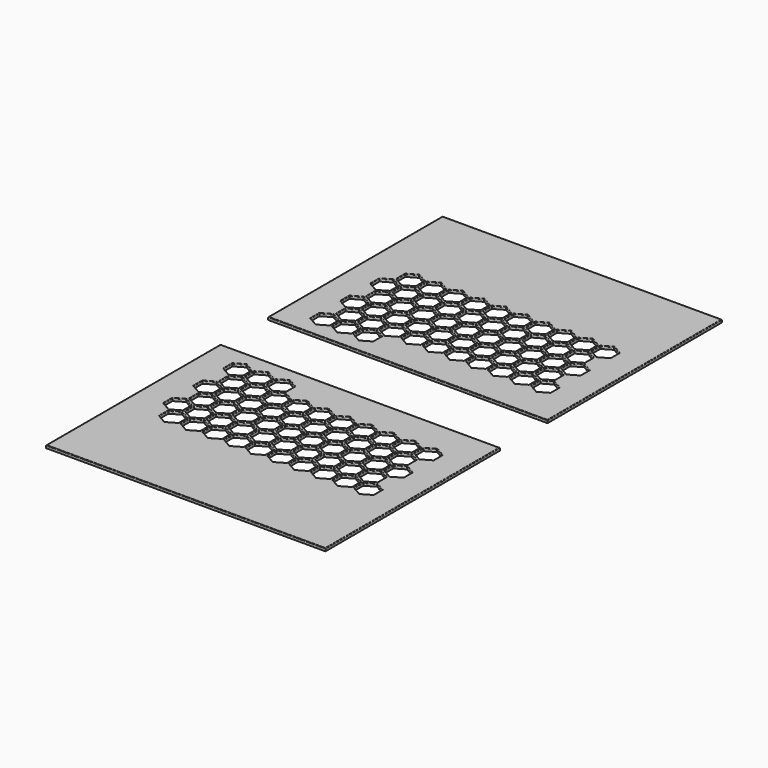
from build123d import *

# Parameters (mm, degrees)
F0_W     = 129.8525900757
F0_H     = 101.3386703653
F1_DEPTH = 1.27
F2_R     = 0.3048


with BuildPart() as f1:
    # F0 (on Top) → F1 (new body)
    with BuildSketch(Plane.XY):
        with Locations((43.5611707774, 64.508975306)):
            Rectangle(F0_W, F0_H)
        Polygon((0.133693842, 22.7296401233), (-4.2657152092, 20.1896401233), (-8.6651242604, 22.7296401233), (-8.6651242604, 27.8096401233), (-4.2657152092, 30.3496401233), (0.133693842, 27.8096401233), align=None, mode=Mode.SUBTRACT)
        Polygon((10.2025119445, 22.7296401233), (5.8031028932, 20.1896401233), (1.403693842, 22.7296401233), (1.403693842, 27.8096401233), (5.8031028932, 30.3496401233), (10.2025119445, 27.8096401233), align=None, mode=Mode.SUBTRACT)
        Polygon((0.768693842, 39.0694923861), (5.1681028932, 36.5294923861), (5.1681028932, 31.4494923861), (0.768693842, 28.9094923861), (-3.6307152092, 31.4494923861), (-3.6307152092, 36.5294923861), align=None, mode=Mode.SUBTRACT)
        Polygon((6.4381028932, 31.4494923861), (6.4381028932, 36.5294923861), (10.8375119445, 39.0694923861), (15.2369209957, 36.5294923861), (15.2369209957, 31.4494923861), (10.8375119445, 28.9094923861), align=None, mode=Mode.SUBTRACT)
        Polygon((20.2713300469, 22.7296401233), (15.8719209957, 20.1896401233), (11.4725119445, 22.7296401233), (11.4725119445, 27.8096401233), (15.8719209957, 30.3496401233), (20.2713300469, 27.8096401233), align=None, mode=Mode.SUBTRACT)
        Polygon((25.3057390981, 36.5294923861), (25.3057390981, 31.4494923861), (20.9063300469, 28.9094923861), (16.5069209957, 31.4494923861), (16.5069209957, 36.5294923861), (20.9063300469, 39.0694923861), align=None, mode=Mode.SUBTRACT)
        Polygon((26.5757390981, 31.4494923861), (26.5757390981, 36.5294923861), (30.9751481494, 39.0694923861), (35.3745572006, 36.5294923861), (35.3745572006, 31.4494923861), (30.9751481494, 28.9094923861), align=None, mode=Mode.SUBTRACT)
        Polygon((45.443375303, 36.5294923861), (45.443375303, 31.4494923861), (41.0439662518, 28.9094923861), (36.6445572006, 31.4494923861), (36.6445572006, 36.5294923861), (41.0439662518, 39.0694923861), align=None, mode=Mode.SUBTRACT)
        Polygon((0.133693842, 45.2493446489), (0.133693842, 40.1693446489), (-4.2657152092, 37.6293446489), (-8.6651242604, 40.1693446489), (-8.6651242604, 45.2493446489), (-4.2657152092, 47.7893446489), align=None, mode=Mode.SUBTRACT)
        Polygon((10.2025119445, 45.2493446489), (10.2025119445, 40.1693446489), (5.8031028932, 37.6293446489), (1.403693842, 40.1693446489), (1.403693842, 45.2493446489), (5.8031028932, 47.7893446489), align=None, mode=Mode.SUBTRACT)
        Polygon((0.768693842, 46.3491969117), (-3.6307152092, 48.8891969117), (-3.6307152092, 53.9691969117), (0.768693842, 56.5091969117), (5.1681028932, 53.9691969117), (5.1681028932, 48.8891969117), align=None, mode=Mode.SUBTRACT)
        Polygon((6.4381028932, 53.9691969117), (10.8375119445, 56.5091969117), (15.2369209957, 53.9691969117), (15.2369209957, 48.8891969117), (10.8375119445, 46.3491969117), (6.4381028932, 48.8891969117), align=None, mode=Mode.SUBTRACT)
        Polygon((0.133693842, 62.6890491746), (0.133693842, 57.6090491746), (-4.2657152092, 55.0690491746), (-8.6651242604, 57.6090491746), (-8.6651242604, 62.6890491746), (-4.2657152092, 65.2290491746), align=None, mode=Mode.SUBTRACT)
        Polygon((10.2025119445, 62.6890491746), (10.2025119445, 57.6090491746), (5.8031028932, 55.0690491746), (1.403693842, 57.6090491746), (1.403693842, 62.6890491746), (5.8031028932, 65.2290491746), align=None, mode=Mode.SUBTRACT)
        Polygon((20.2713300469, 40.1693446489), (15.8719209957, 37.6293446489), (11.4725119445, 40.1693446489), (11.4725119445, 45.2493446489), (15.8719209957, 47.7893446489), (20.2713300469, 45.2493446489), align=None, mode=Mode.SUBTRACT)
        Polygon((30.3401481494, 45.2493446489), (30.3401481494, 40.1693446489), (25.9407390981, 37.6293446489), (21.5413300469, 40.1693446489), (21.5413300469, 45.2493446489), (25.9407390981, 47.7893446489), align=None, mode=Mode.SUBTRACT)
        Polygon((16.5069209957, 53.9691969117), (20.9063300469, 56.5091969117), (25.3057390981, 53.9691969117), (25.3057390981, 48.8891969117), (20.9063300469, 46.3491969117), (16.5069209957, 48.8891969117), align=None, mode=Mode.SUBTRACT)
        Polygon((40.4089662518, 40.1693446489), (36.0095572006, 37.6293446489), (31.6101481494, 40.1693446489), (31.6101481494, 45.2493446489), (36.0095572006, 47.7893446489), (40.4089662518, 45.2493446489), align=None, mode=Mode.SUBTRACT)
        Polygon((26.5757390981, 53.9691969117), (30.9751481494, 56.5091969117), (35.3745572006, 53.9691969117), (35.3745572006, 48.8891969117), (30.9751481494, 46.3491969117), (26.5757390981, 48.8891969117), align=None, mode=Mode.SUBTRACT)
        Polygon((36.6445572006, 53.9691969117), (41.0439662518, 56.5091969117), (45.443375303, 53.9691969117), (45.443375303, 48.8891969117), (41.0439662518, 46.3491969117), (36.6445572006, 48.8891969117), align=None, mode=Mode.SUBTRACT)
        Polygon((20.2713300469, 57.6090491746), (15.8719209957, 55.0690491746), (11.4725119445, 57.6090491746), (11.4725119445, 62.6890491746), (15.8719209957, 65.2290491746), (20.2713300469, 62.6890491746), align=None, mode=Mode.SUBTRACT)
        Polygon((30.3401481494, 62.6890491746), (30.3401481494, 57.6090491746), (25.9407390981, 55.0690491746), (21.5413300469, 57.6090491746), (21.5413300469, 62.6890491746), (25.9407390981, 65.2290491746), align=None, mode=Mode.SUBTRACT)
        Polygon((40.4089662518, 57.6090491746), (36.0095572006, 55.0690491746), (31.6101481494, 57.6090491746), (31.6101481494, 62.6890491746), (36.0095572006, 65.2290491746), (40.4089662518, 62.6890491746), align=None, mode=Mode.SUBTRACT)
        Polygon((46.713375303, 31.4494923861), (46.713375303, 36.5294923861), (51.1127843543, 39.0694923861), (55.5121934055, 36.5294923861), (55.5121934055, 31.4494923861), (51.1127843543, 28.9094923861), align=None, mode=Mode.SUBTRACT)
        Polygon((65.5810115079, 31.4494923861), (61.1816024567, 28.9094923861), (56.7821934055, 31.4494923861), (56.7821934055, 36.5294923861), (61.1816024567, 39.0694923861), (65.5810115079, 36.5294923861), align=None, mode=Mode.SUBTRACT)
        Polygon((71.2504205592, 39.0694923861), (75.6498296104, 36.5294923861), (75.6498296104, 31.4494923861), (71.2504205592, 28.9094923861), (66.8510115079, 31.4494923861), (66.8510115079, 36.5294923861), align=None, mode=Mode.SUBTRACT)
        Polygon((85.7186477128, 31.4494923861), (81.3192386616, 28.9094923861), (76.9198296104, 31.4494923861), (76.9198296104, 36.5294923861), (81.3192386616, 39.0694923861), (85.7186477128, 36.5294923861), align=None, mode=Mode.SUBTRACT)
        Polygon((91.3880567641, 28.9094923861), (86.9886477128, 31.4494923861), (86.9886477128, 36.5294923861), (91.3880567641, 39.0694923861), (95.7874658153, 36.5294923861), (95.7874658153, 31.4494923861), align=None, mode=Mode.SUBTRACT)
        Polygon((50.4777843543, 40.1693446489), (46.078375303, 37.6293446489), (41.6789662518, 40.1693446489), (41.6789662518, 45.2493446489), (46.078375303, 47.7893446489), (50.4777843543, 45.2493446489), align=None, mode=Mode.SUBTRACT)
        Polygon((60.5466024567, 40.1693446489), (56.1471934055, 37.6293446489), (51.7477843543, 40.1693446489), (51.7477843543, 45.2493446489), (56.1471934055, 47.7893446489), (60.5466024567, 45.2493446489), align=None, mode=Mode.SUBTRACT)
        Polygon((51.1127843543, 56.5091969117), (55.5121934055, 53.9691969117), (55.5121934055, 48.8891969117), (51.1127843543, 46.3491969117), (46.713375303, 48.8891969117), (46.713375303, 53.9691969117), align=None, mode=Mode.SUBTRACT)
        Polygon((66.2160115079, 37.6293446489), (61.8166024567, 40.1693446489), (61.8166024567, 45.2493446489), (66.2160115079, 47.7893446489), (70.6154205592, 45.2493446489), (70.6154205592, 40.1693446489), align=None, mode=Mode.SUBTRACT)
        Polygon((56.7821934055, 48.8891969117), (56.7821934055, 53.9691969117), (61.1816024567, 56.5091969117), (65.5810115079, 53.9691969117), (65.5810115079, 48.8891969117), (61.1816024567, 46.3491969117), align=None, mode=Mode.SUBTRACT)
        Polygon((66.8510115079, 53.9691969117), (71.2504205592, 56.5091969117), (75.6498296104, 53.9691969117), (75.6498296104, 48.8891969117), (71.2504205592, 46.3491969117), (66.8510115079, 48.8891969117), align=None, mode=Mode.SUBTRACT)
        Polygon((50.4777843543, 57.6090491746), (46.078375303, 55.0690491746), (41.6789662518, 57.6090491746), (41.6789662518, 62.6890491746), (46.078375303, 65.2290491746), (50.4777843543, 62.6890491746), align=None, mode=Mode.SUBTRACT)
        Polygon((60.5466024567, 57.6090491746), (56.1471934055, 55.0690491746), (51.7477843543, 57.6090491746), (51.7477843543, 62.6890491746), (56.1471934055, 65.2290491746), (60.5466024567, 62.6890491746), align=None, mode=Mode.SUBTRACT)
        Polygon((66.2160115079, 55.0690491746), (61.8166024567, 57.6090491746), (61.8166024567, 62.6890491746), (66.2160115079, 65.2290491746), (70.6154205592, 62.6890491746), (70.6154205592, 57.6090491746), align=None, mode=Mode.SUBTRACT)
        Polygon((76.2848296104, 47.7893446489), (80.6842386616, 45.2493446489), (80.6842386616, 40.1693446489), (76.2848296104, 37.6293446489), (71.8854205592, 40.1693446489), (71.8854205592, 45.2493446489), align=None, mode=Mode.SUBTRACT)
        Polygon((86.3536477128, 47.7893446489), (90.7530567641, 45.2493446489), (90.7530567641, 40.1693446489), (86.3536477128, 37.6293446489), (81.9542386616, 40.1693446489), (81.9542386616, 45.2493446489), align=None, mode=Mode.SUBTRACT)
        Polygon((76.9198296104, 48.8891969117), (76.9198296104, 53.9691969117), (81.3192386616, 56.5091969117), (85.7186477128, 53.9691969117), (85.7186477128, 48.8891969117), (81.3192386616, 46.3491969117), align=None, mode=Mode.SUBTRACT)
        Polygon((95.7874658153, 53.9691969117), (95.7874658153, 48.8891969117), (91.3880567641, 46.3491969117), (86.9886477128, 48.8891969117), (86.9886477128, 53.9691969117), (91.3880567641, 56.5091969117), align=None, mode=Mode.SUBTRACT)
        Polygon((76.2848296104, 65.2290491746), (80.6842386616, 62.6890491746), (80.6842386616, 57.6090491746), (76.2848296104, 55.0690491746), (71.8854205592, 57.6090491746), (71.8854205592, 62.6890491746), align=None, mode=Mode.SUBTRACT)
        Polygon((86.3536477128, 65.2290491746), (90.7530567641, 62.6890491746), (90.7530567641, 57.6090491746), (86.3536477128, 55.0690491746), (81.9542386616, 57.6090491746), (81.9542386616, 62.6890491746), align=None, mode=Mode.SUBTRACT)
        Polygon((0.768693842, 63.7889014374), (-3.6307152092, 66.3289014374), (-3.6307152092, 71.4089014374), (0.768693842, 73.9489014374), (5.1681028932, 71.4089014374), (5.1681028932, 66.3289014374), align=None, mode=Mode.SUBTRACT)
        Polygon((6.4381028932, 71.4089014374), (10.8375119445, 73.9489014374), (15.2369209957, 71.4089014374), (15.2369209957, 66.3289014374), (10.8375119445, 63.7889014374), (6.4381028932, 66.3289014374), align=None, mode=Mode.SUBTRACT)
        Polygon((16.5069209957, 71.4089014374), (20.9063300469, 73.9489014374), (25.3057390981, 71.4089014374), (25.3057390981, 66.3289014374), (20.9063300469, 63.7889014374), (16.5069209957, 66.3289014374), align=None, mode=Mode.SUBTRACT)
        Polygon((26.5757390981, 71.4089014374), (30.9751481494, 73.9489014374), (35.3745572006, 71.4089014374), (35.3745572006, 66.3289014374), (30.9751481494, 63.7889014374), (26.5757390981, 66.3289014374), align=None, mode=Mode.SUBTRACT)
        Polygon((36.6445572006, 71.4089014374), (41.0439662518, 73.9489014374), (45.443375303, 71.4089014374), (45.443375303, 66.3289014374), (41.0439662518, 63.7889014374), (36.6445572006, 66.3289014374), align=None, mode=Mode.SUBTRACT)
        Polygon((51.1127843543, 73.9489014374), (55.5121934055, 71.4089014374), (55.5121934055, 66.3289014374), (51.1127843543, 63.7889014374), (46.713375303, 66.3289014374), (46.713375303, 71.4089014374), align=None, mode=Mode.SUBTRACT)
        Polygon((56.7821934055, 66.3289014374), (56.7821934055, 71.4089014374), (61.1816024567, 73.9489014374), (65.5810115079, 71.4089014374), (65.5810115079, 66.3289014374), (61.1816024567, 63.7889014374), align=None, mode=Mode.SUBTRACT)
        Polygon((66.8510115079, 71.4089014374), (71.2504205592, 73.9489014374), (75.6498296104, 71.4089014374), (75.6498296104, 66.3289014374), (71.2504205592, 63.7889014374), (66.8510115079, 66.3289014374), align=None, mode=Mode.SUBTRACT)
        Polygon((76.9198296104, 66.3289014374), (76.9198296104, 71.4089014374), (81.3192386616, 73.9489014374), (85.7186477128, 71.4089014374), (85.7186477128, 66.3289014374), (81.3192386616, 63.7889014374), align=None, mode=Mode.SUBTRACT)
        Polygon((95.7874658153, 71.4089014374), (95.7874658153, 66.3289014374), (91.3880567641, 63.7889014374), (86.9886477128, 66.3289014374), (86.9886477128, 71.4089014374), (91.3880567641, 73.9489014374), align=None, mode=Mode.SUBTRACT)
    extrude(amount=F1_DEPTH)

    # F2
    f2_edges = [f1.edges().sort_by_distance(p)[0] for p in [
        (43.561171, 115.17831, 1.27),
        (-21.365124, 64.508975, 1.27),
        (43.561171, 13.83964, 1.27),
        (108.487466, 64.508975, 1.27),
        (-2.066011, 29.07964, 1.27),
        (0.133694, 25.26964, 1.27),
        (-2.066011, 21.45964, 1.27),
        (-6.46542, 21.45964, 1.27),
        (-8.665124, 25.26964, 1.27),
        (-6.46542, 29.07964, 1.27),
        (8.002807, 21.45964, 1.27),
        (3.603398, 21.45964, 1.27),
        (1.403694, 25.26964, 1.27),
        (3.603398, 29.07964, 1.27),
        (8.002807, 29.07964, 1.27),
        (10.202512, 25.26964, 1.27),
        (-1.431011, 37.799492, 1.27),
        (2.968398, 37.799492, 1.27),
        (5.168103, 33.989492, 1.27),
        (2.968398, 30.179492, 1.27),
        (-1.431011, 30.179492, 1.27),
        (-3.630715, 33.989492, 1.27),
        (8.637807, 30.179492, 1.27),
        (6.438103, 33.989492, 1.27),
        (8.637807, 37.799492, 1.27),
        (13.037216, 37.799492, 1.27),
        (15.236921, 33.989492, 1.27),
        (13.037216, 30.179492, 1.27),
        (18.071626, 21.45964, 1.27),
        (13.672216, 21.45964, 1.27),
        (11.472512, 25.26964, 1.27),
        (13.672216, 29.07964, 1.27),
        (18.071626, 29.07964, 1.27),
        (20.27133, 25.26964, 1.27),
        (23.106035, 37.799492, 1.27),
        (25.305739, 33.989492, 1.27),
        (23.106035, 30.179492, 1.27),
        (18.706626, 30.179492, 1.27),
        (16.506921, 33.989492, 1.27),
        (18.706626, 37.799492, 1.27),
        (28.775444, 30.179492, 1.27),
        (26.575739, 33.989492, 1.27),
        (28.775444, 37.799492, 1.27),
        (33.174853, 37.799492, 1.27),
        (35.374557, 33.989492, 1.27),
        (33.174853, 30.179492, 1.27),
        (45.443375, 33.989492, 1.27),
        (43.243671, 30.179492, 1.27),
        (38.844262, 30.179492, 1.27),
        (36.644557, 33.989492, 1.27),
        (38.844262, 37.799492, 1.27),
        (43.243671, 37.799492, 1.27),
        (-2.066011, 46.519345, 1.27),
        (0.133694, 42.709345, 1.27),
        (-2.066011, 38.899345, 1.27),
        (-6.46542, 38.899345, 1.27),
        (-8.665124, 42.709345, 1.27),
        (-6.46542, 46.519345, 1.27),
        (8.002807, 46.519345, 1.27),
        (10.202512, 42.709345, 1.27),
        (8.002807, 38.899345, 1.27),
        (3.603398, 38.899345, 1.27),
        (1.403694, 42.709345, 1.27),
        (3.603398, 46.519345, 1.27),
        (2.968398, 47.619197, 1.27),
        (-1.431011, 47.619197, 1.27),
        (-3.630715, 51.429197, 1.27),
        (-1.431011, 55.239197, 1.27),
        (2.968398, 55.239197, 1.27),
        (5.168103, 51.429197, 1.27),
        (8.637807, 47.619197, 1.27),
        (6.438103, 51.429197, 1.27),
        (8.637807, 55.239197, 1.27),
        (13.037216, 55.239197, 1.27),
        (15.236921, 51.429197, 1.27),
        (13.037216, 47.619197, 1.27),
        (-2.066011, 63.959049, 1.27),
        (0.133694, 60.149049, 1.27),
        (-2.066011, 56.339049, 1.27),
        (-6.46542, 56.339049, 1.27),
        (-8.665124, 60.149049, 1.27),
        (-6.46542, 63.959049, 1.27),
        (8.002807, 63.959049, 1.27),
        (10.202512, 60.149049, 1.27),
        (8.002807, 56.339049, 1.27),
        (3.603398, 56.339049, 1.27),
        (1.403694, 60.149049, 1.27),
        (3.603398, 63.959049, 1.27),
        (18.071626, 46.519345, 1.27),
        (20.27133, 42.709345, 1.27),
        (18.071626, 38.899345, 1.27),
        (13.672216, 38.899345, 1.27),
        (11.472512, 42.709345, 1.27),
        (13.672216, 46.519345, 1.27),
        (28.140444, 46.519345, 1.27),
        (30.340148, 42.709345, 1.27),
        (28.140444, 38.899345, 1.27),
        (23.741035, 38.899345, 1.27),
        (21.54133, 42.709345, 1.27),
        (23.741035, 46.519345, 1.27),
        (18.706626, 47.619197, 1.27),
        (16.506921, 51.429197, 1.27),
        (18.706626, 55.239197, 1.27),
        (23.106035, 55.239197, 1.27),
        (25.305739, 51.429197, 1.27),
        (23.106035, 47.619197, 1.27),
        (38.209262, 38.899345, 1.27),
        (33.809853, 38.899345, 1.27),
        (31.610148, 42.709345, 1.27),
        (33.809853, 46.519345, 1.27),
        (38.209262, 46.519345, 1.27),
        (40.408966, 42.709345, 1.27),
        (28.775444, 47.619197, 1.27),
        (26.575739, 51.429197, 1.27),
        (28.775444, 55.239197, 1.27),
        (33.174853, 55.239197, 1.27),
        (35.374557, 51.429197, 1.27),
        (33.174853, 47.619197, 1.27),
        (38.844262, 55.239197, 1.27),
        (43.243671, 55.239197, 1.27),
        (45.443375, 51.429197, 1.27),
        (43.243671, 47.619197, 1.27),
        (38.844262, 47.619197, 1.27),
        (36.644557, 51.429197, 1.27),
        (18.071626, 56.339049, 1.27),
        (13.672216, 56.339049, 1.27),
        (11.472512, 60.149049, 1.27),
        (13.672216, 63.959049, 1.27),
        (18.071626, 63.959049, 1.27),
        (20.27133, 60.149049, 1.27),
        (28.140444, 63.959049, 1.27),
        (30.340148, 60.149049, 1.27),
        (28.140444, 56.339049, 1.27),
        (23.741035, 56.339049, 1.27),
        (21.54133, 60.149049, 1.27),
        (23.741035, 63.959049, 1.27),
        (38.209262, 56.339049, 1.27),
        (33.809853, 56.339049, 1.27),
        (31.610148, 60.149049, 1.27),
        (33.809853, 63.959049, 1.27),
        (38.209262, 63.959049, 1.27),
        (40.408966, 60.149049, 1.27),
        (48.91308, 30.179492, 1.27),
        (46.713375, 33.989492, 1.27),
        (48.91308, 37.799492, 1.27),
        (53.312489, 37.799492, 1.27),
        (55.512193, 33.989492, 1.27),
        (53.312489, 30.179492, 1.27),
        (63.381307, 30.179492, 1.27),
        (58.981898, 30.179492, 1.27),
        (56.782193, 33.989492, 1.27),
        (58.981898, 37.799492, 1.27),
        (63.381307, 37.799492, 1.27),
        (65.581012, 33.989492, 1.27),
        (73.450125, 37.799492, 1.27),
        (75.64983, 33.989492, 1.27),
        (73.450125, 30.179492, 1.27),
        (69.050716, 30.179492, 1.27),
        (66.851012, 33.989492, 1.27),
        (69.050716, 37.799492, 1.27),
        (83.518943, 30.179492, 1.27),
        (79.119534, 30.179492, 1.27),
        (76.91983, 33.989492, 1.27),
        (79.119534, 37.799492, 1.27),
        (83.518943, 37.799492, 1.27),
        (85.718648, 33.989492, 1.27),
        (95.787466, 33.989492, 1.27),
        (93.587761, 30.179492, 1.27),
        (89.188352, 30.179492, 1.27),
        (86.988648, 33.989492, 1.27),
        (89.188352, 37.799492, 1.27),
        (93.587761, 37.799492, 1.27),
        (48.27808, 38.899345, 1.27),
        (43.878671, 38.899345, 1.27),
        (41.678966, 42.709345, 1.27),
        (43.878671, 46.519345, 1.27),
        (48.27808, 46.519345, 1.27),
        (50.477784, 42.709345, 1.27),
        (58.346898, 38.899345, 1.27),
        (53.947489, 38.899345, 1.27),
        (51.747784, 42.709345, 1.27),
        (53.947489, 46.519345, 1.27),
        (58.346898, 46.519345, 1.27),
        (60.546602, 42.709345, 1.27),
        (48.91308, 55.239197, 1.27),
        (53.312489, 55.239197, 1.27),
        (55.512193, 51.429197, 1.27),
        (53.312489, 47.619197, 1.27),
        (48.91308, 47.619197, 1.27),
        (46.713375, 51.429197, 1.27),
        (64.016307, 38.899345, 1.27),
        (61.816602, 42.709345, 1.27),
        (64.016307, 46.519345, 1.27),
        (68.415716, 46.519345, 1.27),
        (70.615421, 42.709345, 1.27),
        (68.415716, 38.899345, 1.27),
        (58.981898, 47.619197, 1.27),
        (56.782193, 51.429197, 1.27),
        (58.981898, 55.239197, 1.27),
        (63.381307, 55.239197, 1.27),
        (65.581012, 51.429197, 1.27),
        (63.381307, 47.619197, 1.27),
        (69.050716, 47.619197, 1.27),
        (66.851012, 51.429197, 1.27),
        (69.050716, 55.239197, 1.27),
        (73.450125, 55.239197, 1.27),
        (75.64983, 51.429197, 1.27),
        (73.450125, 47.619197, 1.27),
        (48.27808, 56.339049, 1.27),
        (43.878671, 56.339049, 1.27),
        (41.678966, 60.149049, 1.27),
        (43.878671, 63.959049, 1.27),
        (48.27808, 63.959049, 1.27),
        (50.477784, 60.149049, 1.27),
        (58.346898, 56.339049, 1.27),
        (53.947489, 56.339049, 1.27),
        (51.747784, 60.149049, 1.27),
        (53.947489, 63.959049, 1.27),
        (58.346898, 63.959049, 1.27),
        (60.546602, 60.149049, 1.27),
        (68.415716, 56.339049, 1.27),
        (64.016307, 56.339049, 1.27),
        (61.816602, 60.149049, 1.27),
        (64.016307, 63.959049, 1.27),
        (68.415716, 63.959049, 1.27),
        (70.615421, 60.149049, 1.27),
        (78.484534, 46.519345, 1.27),
        (80.684239, 42.709345, 1.27),
        (78.484534, 38.899345, 1.27),
        (74.085125, 38.899345, 1.27),
        (71.885421, 42.709345, 1.27),
        (74.085125, 46.519345, 1.27),
        (88.553352, 46.519345, 1.27),
        (90.753057, 42.709345, 1.27),
        (88.553352, 38.899345, 1.27),
        (84.153943, 38.899345, 1.27),
        (81.954239, 42.709345, 1.27),
        (84.153943, 46.519345, 1.27),
        (79.119534, 47.619197, 1.27),
        (76.91983, 51.429197, 1.27),
        (79.119534, 55.239197, 1.27),
        (83.518943, 55.239197, 1.27),
        (85.718648, 51.429197, 1.27),
        (83.518943, 47.619197, 1.27),
        (95.787466, 51.429197, 1.27),
        (93.587761, 47.619197, 1.27),
        (89.188352, 47.619197, 1.27),
        (86.988648, 51.429197, 1.27),
        (89.188352, 55.239197, 1.27),
        (93.587761, 55.239197, 1.27),
        (74.085125, 63.959049, 1.27),
        (78.484534, 63.959049, 1.27),
        (80.684239, 60.149049, 1.27),
        (78.484534, 56.339049, 1.27),
        (74.085125, 56.339049, 1.27),
        (71.885421, 60.149049, 1.27),
        (88.553352, 63.959049, 1.27),
        (90.753057, 60.149049, 1.27),
        (88.553352, 56.339049, 1.27),
        (84.153943, 56.339049, 1.27),
        (81.954239, 60.149049, 1.27),
        (84.153943, 63.959049, 1.27),
        (2.968398, 65.058901, 1.27),
        (-1.431011, 65.058901, 1.27),
        (-3.630715, 68.868901, 1.27),
        (-1.431011, 72.678901, 1.27),
        (2.968398, 72.678901, 1.27),
        (5.168103, 68.868901, 1.27),
        (8.637807, 65.058901, 1.27),
        (6.438103, 68.868901, 1.27),
        (8.637807, 72.678901, 1.27),
        (13.037216, 72.678901, 1.27),
        (15.236921, 68.868901, 1.27),
        (13.037216, 65.058901, 1.27),
        (18.706626, 65.058901, 1.27),
        (16.506921, 68.868901, 1.27),
        (18.706626, 72.678901, 1.27),
        (23.106035, 72.678901, 1.27),
        (25.305739, 68.868901, 1.27),
        (23.106035, 65.058901, 1.27),
        (28.775444, 65.058901, 1.27),
        (26.575739, 68.868901, 1.27),
        (28.775444, 72.678901, 1.27),
        (33.174853, 72.678901, 1.27),
        (35.374557, 68.868901, 1.27),
        (33.174853, 65.058901, 1.27),
        (38.844262, 65.058901, 1.27),
        (36.644557, 68.868901, 1.27),
        (38.844262, 72.678901, 1.27),
        (43.243671, 72.678901, 1.27),
        (45.443375, 68.868901, 1.27),
        (43.243671, 65.058901, 1.27),
        (48.91308, 72.678901, 1.27),
        (53.312489, 72.678901, 1.27),
        (55.512193, 68.868901, 1.27),
        (53.312489, 65.058901, 1.27),
        (48.91308, 65.058901, 1.27),
        (46.713375, 68.868901, 1.27),
        (58.981898, 65.058901, 1.27),
        (56.782193, 68.868901, 1.27),
        (58.981898, 72.678901, 1.27),
        (63.381307, 72.678901, 1.27),
        (65.581012, 68.868901, 1.27),
        (63.381307, 65.058901, 1.27),
        (69.050716, 65.058901, 1.27),
        (66.851012, 68.868901, 1.27),
        (69.050716, 72.678901, 1.27),
        (73.450125, 72.678901, 1.27),
        (75.64983, 68.868901, 1.27),
        (73.450125, 65.058901, 1.27),
        (76.91983, 68.868901, 1.27),
        (79.119534, 72.678901, 1.27),
        (83.518943, 72.678901, 1.27),
        (85.718648, 68.868901, 1.27),
        (83.518943, 65.058901, 1.27),
        (79.119534, 65.058901, 1.27),
        (93.587761, 72.678901, 1.27),
        (95.787466, 68.868901, 1.27),
        (93.587761, 65.058901, 1.27),
        (89.188352, 65.058901, 1.27),
        (86.988648, 68.868901, 1.27),
        (89.188352, 72.678901, 1.27),
    ]]
    fillet(f2_edges, radius=F2_R)


with BuildPart() as f3_1:
    # F3: instance of F1
    add(f1.part.mirror(Plane.XZ))


solid = Compound([f1.part, f3_1.part])
